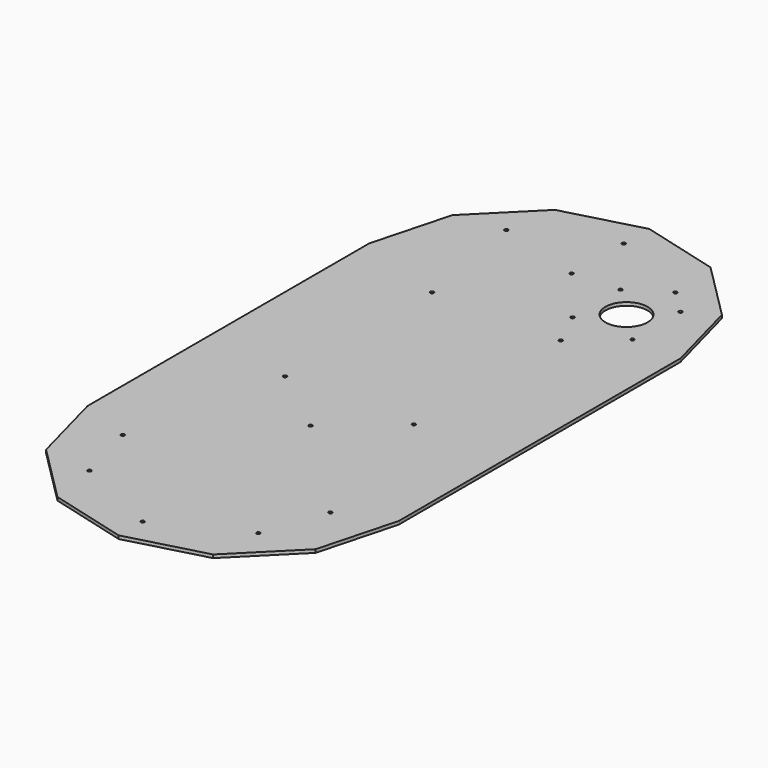
from build123d import *

# Parameters (mm, degrees)
F1_DEPTH = 3.175
F2_R     = 20.6375
F2_R_2   = 1.7272
F3_DEPTH = 3.175


with BuildPart() as f1:
    # F0 (on Top) → F1 (new body)
    with BuildSketch(Plane.XY):
        Polygon((304.8, -344.886255), (304.8, 0), (284.382272, 76.2), (228.6, 131.982272), (152.4, 152.4), (76.2, 131.982272), (20.417728, 76.2), (0, 0), (0, -344.886255), (20.417728, -421.086255), (76.2, -476.868526), (152.4, -497.286255), (228.6, -476.868526), (284.382272, -421.086255), align=None)
    extrude(amount=F1_DEPTH)

    # F2 (on face) → F3 (cut, through all)
    with BuildSketch(Plane.XY.offset(3.175)):
        with Locations((227.258907, 30.807116)):
            Circle(F2_R)
        with Locations((88.192595, -33.361206)):
            Circle(F2_R_2)
        with Locations((214.795642, -33.977575)):
            Circle(F2_R_2)
        with Locations((197.890157, 1.438366)):
            Circle(F2_R_2)
        with Locations((256.627657, 1.438366)):
            Circle(F2_R_2)
        with Locations((256.627657, 60.175866)):
            Circle(F2_R_2)
        with Locations((197.890157, 60.175866)):
            Circle(F2_R_2)
        with Locations((213.92522, -212.763443)):
            Circle(F2_R_2)
        with Locations((87.322173, -212.147074)):
            Circle(F2_R_2)
        with Locations((152.542099, -468.099017)):
            Circle(F2_R_2)
        with Locations((255.188616, -366.447129)):
            Circle(F2_R_2)
        with Locations((153.536729, -263.800611)):
            Circle(F2_R_2)
        with Locations((50.890211, -365.452499)):
            Circle(F2_R_2)
        with Locations((152.248171, 121.214165)):
            Circle(F2_R_2)
        with Locations((151.93902, 57.714165)):
            Circle(F2_R_2)
        with Locations((68.055466, 82.76303)):
            Circle(F2_R_2)
        with Locations((233.581526, 82.76303)):
            Circle(F2_R_2)
        with Locations((68.055466, -427.649284)):
            Circle(F2_R_2)
        with Locations((233.581526, -427.649284)):
            Circle(F2_R_2)
    extrude(amount=-F3_DEPTH, mode=Mode.SUBTRACT)


solid = f1.part
